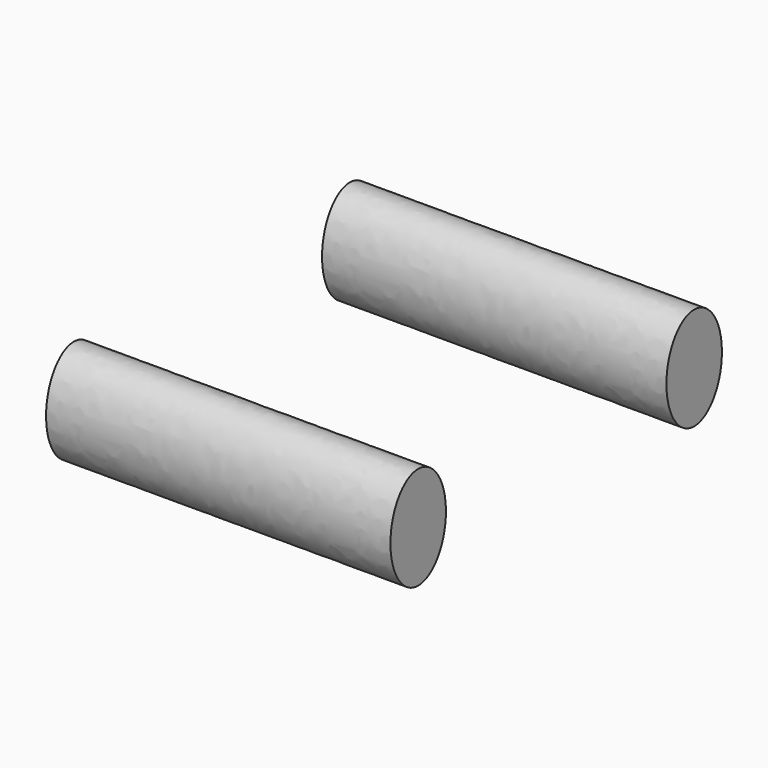
from build123d import *

# Parameters (mm, degrees)
F1_DEPTH = 25.4


with BuildPart() as f1:
    # F0 (on Right) → F1 (new body)
    with BuildSketch(Plane.YZ):
        with BuildLine():
            add(Edge.make_bspline(
                [(-12.72145, 3.82408), (-8.291194, 3.82408), (-10.506322, 9.511462), (-12.72145, 15.198844), (-14.936578, 9.511462), (-17.151706, 3.82408), (-12.72145, 3.82408)],
                knots=[0, 0, 0, 2.094395, 2.094395, 4.18879, 4.18879, 6.283185, 6.283185, 6.283185], degree=2, weights=[1, 0.5, 1, 0.5, 1, 0.5, 1]))
        make_face()
        with BuildLine():
            add(Edge.make_bspline(
                [(12.72145, 3.82408), (17.151706, 3.82408), (14.936578, 9.511462), (12.72145, 15.198844), (10.506322, 9.511462), (8.291194, 3.82408), (12.72145, 3.82408)],
                knots=[0, 0, 0, 2.094395, 2.094395, 4.18879, 4.18879, 6.283185, 6.283185, 6.283185], degree=2, weights=[1, 0.5, 1, 0.5, 1, 0.5, 1]))
        make_face()
    extrude(amount=F1_DEPTH)


solid = f1.part
